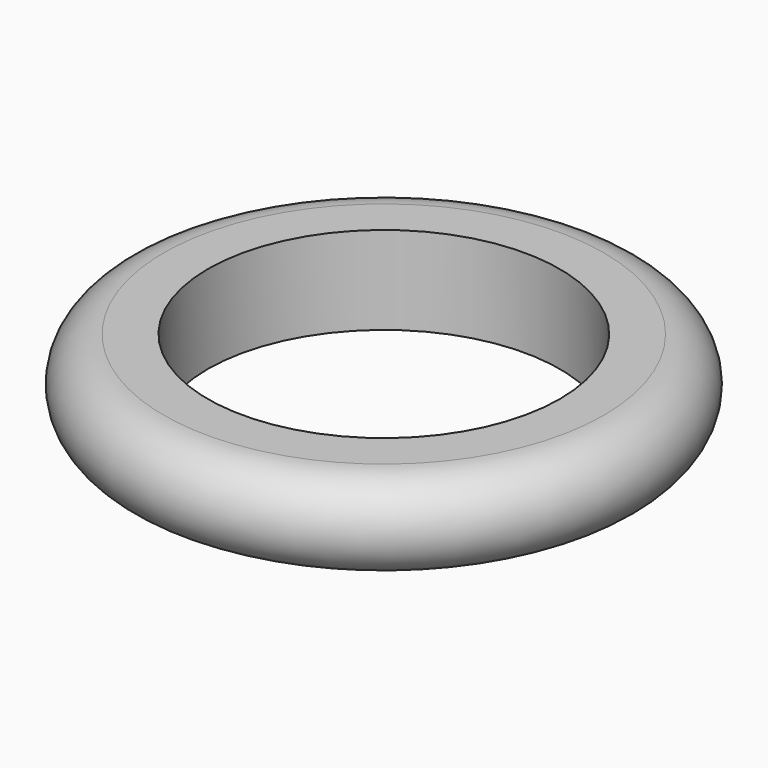
from build123d import *

# Parameters (mm, degrees)
F0_W = 4
F0_H = 8


with BuildPart() as f1:
    # F0 (on Front) → F1 (revolve)
    with BuildSketch(Plane.XZ):
        with Locations((9.727734, 1.282526)):
            Rectangle(F0_W, F0_H)
        with BuildLine():
            Line((11.727734, 5.282526), (11.727734, -2.717474))
            ThreePointArc((11.727734, -2.717474), (15.727734, 1.282526), (11.727734, 5.282526))
        make_face()
    revolve(axis=Axis((-8.272266, 0, 3.042421), (0, 0, 1)))


solid = f1.part
